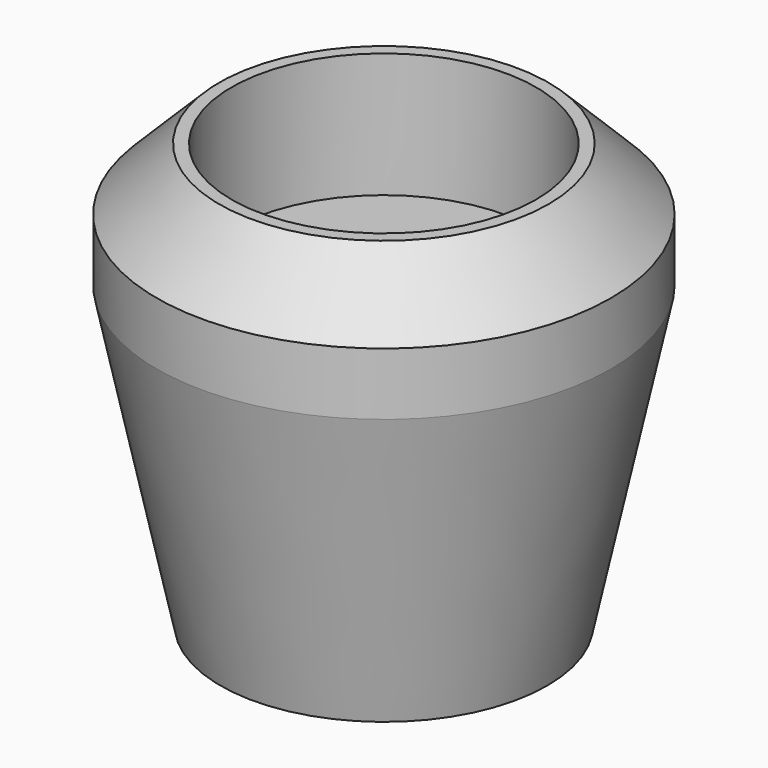
from build123d import *

# Parameters (mm, degrees)
F1_R     = 9.1
F1_R_2   = 6.1
F2_DEPTH = 5
F3_DEPTH = 12
F3_TAPER = 12
F4_R     = 4.25
F4_R_2   = 2.75
F5_DEPTH = 10
F6_SIZE  = 2.5


with BuildPart() as f2:
    # F1 (on Top) → F2 (new body)
    with BuildSketch(Plane.XY):
        Circle(F1_R)
        Circle(F1_R_2, mode=Mode.SUBTRACT)
    extrude(amount=F2_DEPTH)

    # F1 (on Top) → F3 (join)
    with BuildSketch(Plane.XY):
        Circle(F1_R)
        Circle(F1_R_2, mode=Mode.SUBTRACT)
        Circle(F1_R_2)
    extrude(amount=-F3_DEPTH, taper=F3_TAPER)

    # F4 (on face) → F5 (cut)
    with BuildSketch(Plane(origin=(0, 0, -12), x_dir=(1, 0, 0), z_dir=(0, 0, -1))):
        Circle(F4_R)
        Circle(F4_R_2, mode=Mode.SUBTRACT)
    extrude(amount=-F5_DEPTH, mode=Mode.SUBTRACT)

    # F6
    f6_edges = [f2.edges().sort_by_distance(p)[0] for p in [
        (-9.1, 0, 5),
    ]]
    chamfer(f6_edges, length=F6_SIZE)


solid = f2.part
